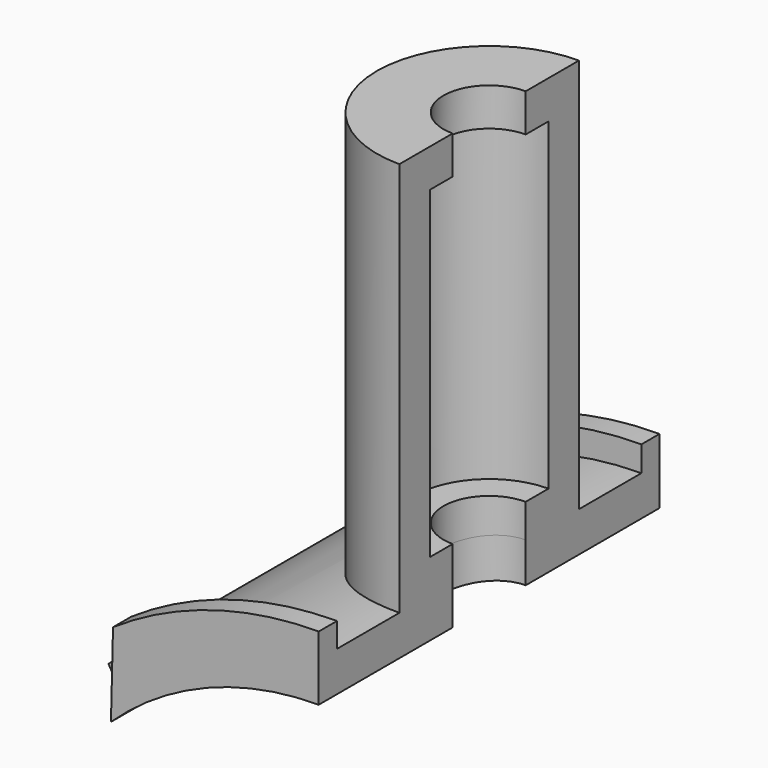
from build123d import *

# Parameters (mm, degrees)
F1_ANGLE  = 180
F3_DEPTH  = 10
F4_R      = 15.9
F5_DEPTH  = 12.5
F6_R      = 2.4
F7_DEPTH  = 8.211553
F9_DEPTH  = 1.2
F11_DEPTH = 1.2


with BuildPart() as f1:
    # F0 (on Front) → F1 (revolve, symmetric)
    with BuildSketch(Plane.XZ) as f1_sk:
        Polygon((-5.9, 14.764823), (-2.4, 15.717824), (-2.4, 19.764823), (-3.9, 19.764823), (-3.9, 36.764823), (-2.4, 36.764823), (-2.4, 38.764823), (-5.9, 38.764823), align=None)
    revolve(axis=Axis((0, 0, 26.233703), (0, 0, 1)), revolution_arc=F1_ANGLE / 2)
    revolve(f1_sk.sketch, axis=Axis((0, 0, 26.233703), (0, 0, -1)), revolution_arc=F1_ANGLE / 2)

    # F2 (on Front) → F3 (join, symmetric)
    with BuildSketch(Plane.XZ):
        with BuildLine():
            ThreePointArc((-10.922859, 11.55427), (-5.877802, 14.773674), (0, 15.9))
            Line((0, 15.9), (0, 18))
            ThreePointArc((0, 18), (-6.432893, 16.811243), (-12.016103, 13.401987))
            Line((-12.016103, 13.401987), (-10.922859, 11.55427))
        make_face()
    extrude(amount=F3_DEPTH, both=True)

    # F4 (on Front) → F5 (cut, symmetric)
    with BuildSketch(Plane.XZ):
        Circle(F4_R)
    extrude(amount=F5_DEPTH, both=True, mode=Mode.SUBTRACT)

    # F6 (on face) → F7 (cut, through all)
    with BuildSketch(Plane.XY.offset(19.764823)):
        Circle(F6_R)
    extrude(amount=-F7_DEPTH, mode=Mode.SUBTRACT)

    # F8 (on face) → F9 (join)
    with BuildSketch(Plane.XZ.offset(10)):
        with BuildLine():
            ThreePointArc((-10.922859, 11.55427), (-5.877802, 14.773674), (0, 15.9))
            Line((0, 15.9), (0, 19.290676))
            ThreePointArc((0, 19.290676), (-5.655412, 18.443061), (-10.813836, 15.974703))
            Line((-10.813836, 15.974703), (-10.922859, 11.55427))
        make_face()
    extrude(amount=F9_DEPTH)

    # F10 (on face) → F11 (join)
    with BuildSketch(Plane(origin=(0, 10, 0), x_dir=(-1, 0, 0), z_dir=(0, 1, 0))):
        with BuildLine():
            Line((0, 19.332207), (0, 15.9))
            ThreePointArc((0, 15.9), (5.877802, 14.773674), (10.922859, 11.55427))
            Line((10.922859, 11.55427), (10.814505, 16.024379))
            ThreePointArc((10.814505, 16.024379), (5.654539, 18.486764), (0, 19.332207))
        make_face()
    extrude(amount=F11_DEPTH)


solid = f1.part
